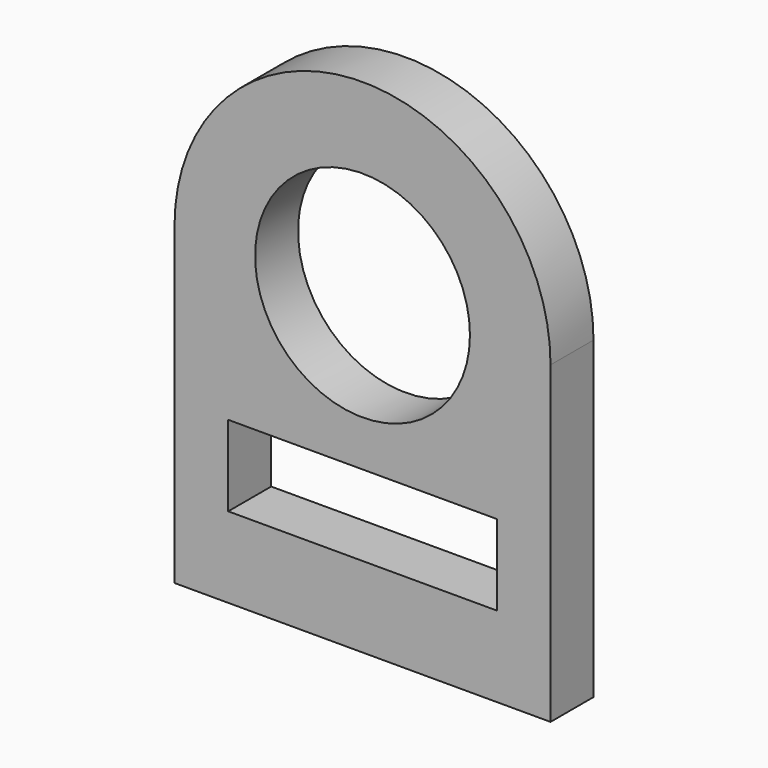
from build123d import *

# Parameters (mm, degrees)
F0_W     = 1270
F0_H     = 381
F0_R     = 508
F1_DEPTH = 254


with BuildPart() as f1:
    # F0 (on Front) → F1 (new body)
    with BuildSketch(Plane.XZ):
        with BuildLine():
            Line((-1778, 0), (0, 0))
            Line((0, 0), (0, 1486.216187))
            ThreePointArc((0, 1486.216187), (-889, 2375.216187), (-1778, 1486.216187))
            Line((-1778, 1486.216187), (-1778, 0))
        make_face()
        with Locations((-889, 571.5)):
            Rectangle(F0_W, F0_H, mode=Mode.SUBTRACT)
        with Locations((-889, 1486.216187)):
            Circle(F0_R, mode=Mode.SUBTRACT)
    extrude(amount=F1_DEPTH)


solid = f1.part
